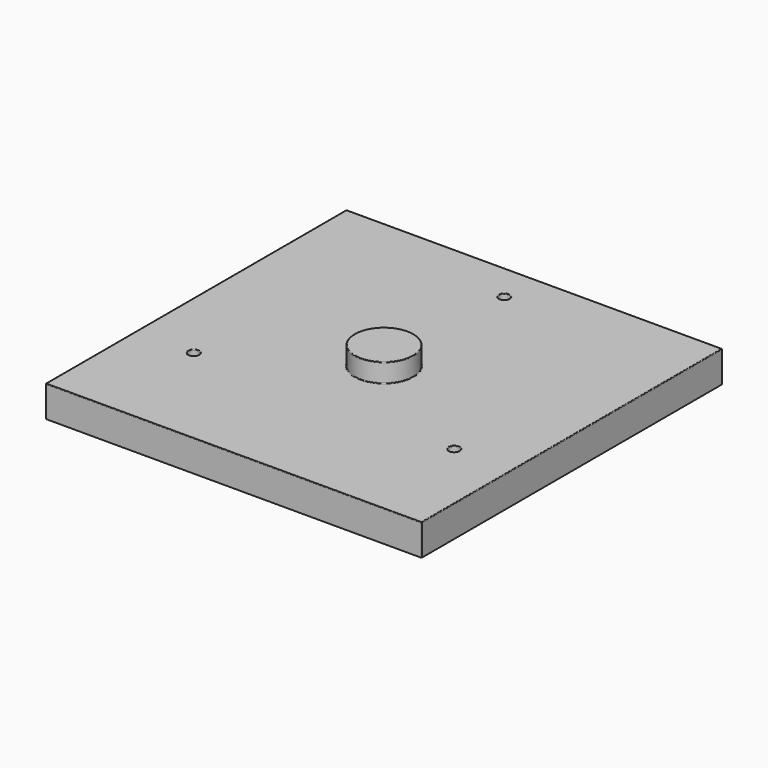
from build123d import *

# Parameters (mm, degrees)
F0_W     = 300
F0_H     = 300
F1_DEPTH = 25
F2_R     = 23.45
F3_DEPTH = 15
F5_D     = 8.5
F6_R     = 0.5


with BuildPart() as f1:
    # F0 (on Top) → F1 (new body)
    with BuildSketch(Plane.XY):
        Rectangle(F0_W, F0_H)
    extrude(amount=F1_DEPTH)

    # F2 (on face) → F3 (join)
    with BuildSketch(Plane.XY.offset(25)):
        Circle(F2_R)
    extrude(amount=F3_DEPTH)

    # F5 (through all)
    with Locations(Plane.XY.offset(25)):
        with Locations((0, 120), (103.9230484541, -60), (-103.9230484541, -60)):
            Hole(F5_D / 2)

    # F6
    f6_edges = [f1.edges().sort_by_distance(p)[0] for p in [
        (-23.45, 0, 40),
        (150, 0, 25),
        (0, -150, 25),
        (0, 150, 25),
        (-150, 0, 25),
        (-108.173048, -60, 25),
        (-23.45, 0, 25),
        (99.673048, -60, 25),
        (-4.25, 120, 25),
        (150, -150, 12.5),
        (150, 150, 12.5),
        (-150, -150, 12.5),
        (-150, 150, 12.5),
    ]]
    fillet(f6_edges, radius=F6_R)


solid = f1.part
